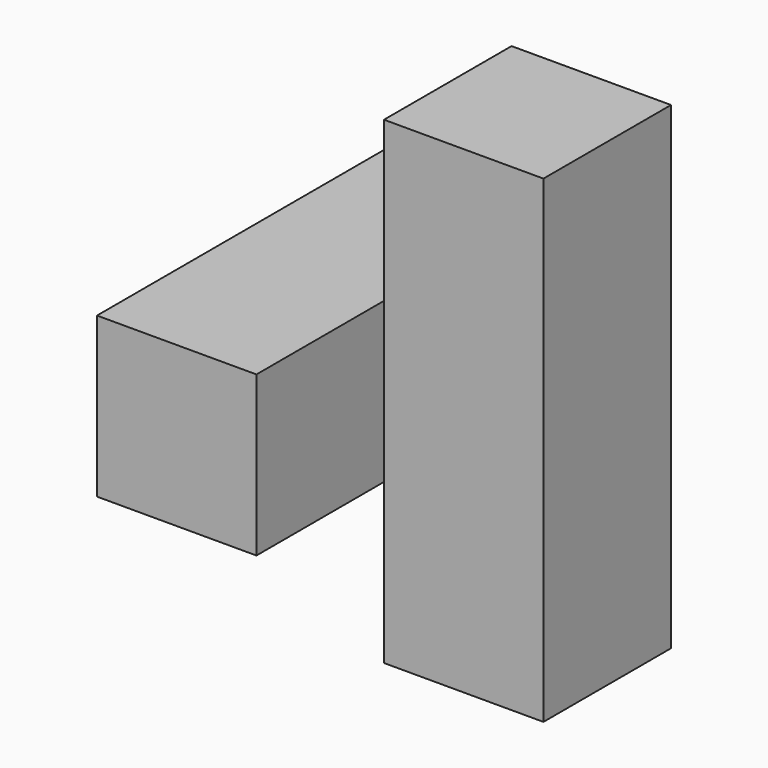
from build123d import *

# Parameters (mm, degrees)
F0_W     = 12.7
F0_H     = 38.1
F1_DEPTH = 12.7
F3_DEPTH = 12.7


with BuildPart() as f1:
    # F0 (on Right) → F1 (new body)
    with BuildSketch(Plane.YZ):
        with Locations((6.35, 19.05)):
            Rectangle(F0_W, F0_H)
    extrude(amount=F1_DEPTH)

    # F2 (on Right) → F3 (join)
    with BuildSketch(Plane.YZ):
        Polygon((-12.7, 12.7), (0, 12.7), (25.4, 12.7), (25.4, 25.4), (-12.7, 25.4), align=None)
    extrude(amount=-F3_DEPTH)


solid = f1.part
